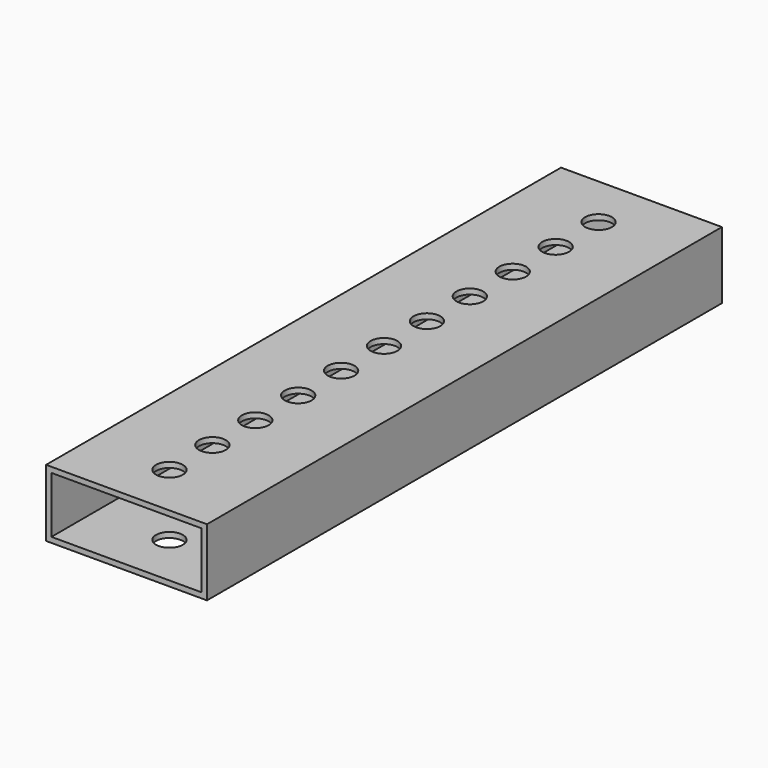
from build123d import *

# Parameters (mm, degrees)
F0_W     = 76.2
F0_H     = 31.75
F1_DEPTH = 304.8
F2_T     = -2.54
F4_D     = 12.7


with BuildPart() as f1:
    # F0 (on Front) → F1 (new body)
    with BuildSketch(Plane.XZ):
        Rectangle(F0_W, F0_H)
    extrude(amount=-F1_DEPTH)

    # F2
    f2_openings = [f1.faces().sort_by_distance(p)[0] for p in [
        (0, 0, 0),
    ]]
    offset(amount=F2_T, openings=f2_openings)

    # F4 (through all)
    with Locations(Plane.XY.offset(15.875)):
        with Locations((0, 279.4), (0, 254), (0, 228.6), (0, 203.2), (0, 177.8), (0, 152.4), (0, 127), (0, 101.6), (0, 76.2), (0, 25.4), (0, 50.8)):
            Hole(F4_D / 2)


solid = f1.part
